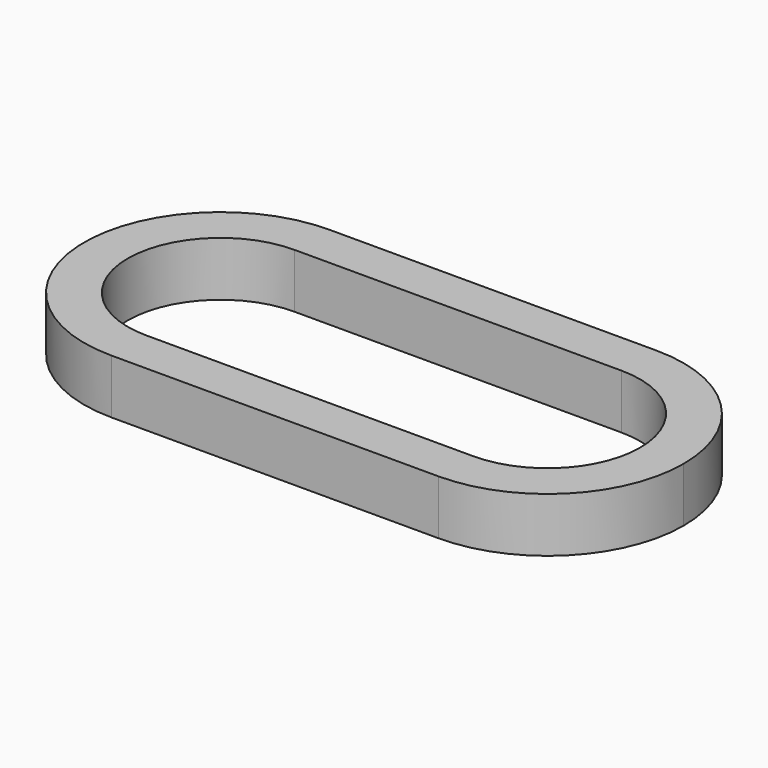
from build123d import *

# Parameters (mm, degrees)
F1_DEPTH = 5
F2_T     = -4


with BuildPart() as f1:
    # F0 (on Top) → F1 (new body)
    with BuildSketch(Plane.XY):
        with BuildLine():
            Line((-15, -12.5), (-15, 12.5))
            ThreePointArc((-15, 12.5), (-27.5, 0), (-15, -12.5))
        make_face()
        with BuildLine():
            ThreePointArc((-2.5, 0), (-6.161165, 8.838835), (-15, 12.5))
            Line((-15, 12.5), (-15, -12.5))
            ThreePointArc((-15, -12.5), (-6.161165, -8.838835), (-2.5, 0))
        make_face()
        with BuildLine():
            ThreePointArc((15, -12.5), (2.5, 0), (15, 12.5))
            Line((15, 12.5), (-15, 12.5))
            ThreePointArc((-15, 12.5), (-6.161165, 8.838835), (-2.5, 0))
            ThreePointArc((-2.5, 0), (-6.161165, -8.838835), (-15, -12.5))
            Line((-15, -12.5), (15, -12.5))
        make_face()
        with BuildLine():
            Line((15, -12.5), (15, 12.5))
            ThreePointArc((15, 12.5), (2.5, 0), (15, -12.5))
        make_face()
        with BuildLine():
            ThreePointArc((27.5, 0), (23.838835, 8.838835), (15, 12.5))
            Line((15, 12.5), (15, -12.5))
            ThreePointArc((15, -12.5), (23.838835, -8.838835), (27.5, 0))
        make_face()
    extrude(amount=F1_DEPTH)

    # F2
    f2_openings = [f1.faces().sort_by_distance(p)[0] for p in [
        (0, 0, 5),
        (0, 0, 0),
    ]]
    offset(amount=F2_T, openings=f2_openings)


solid = f1.part
